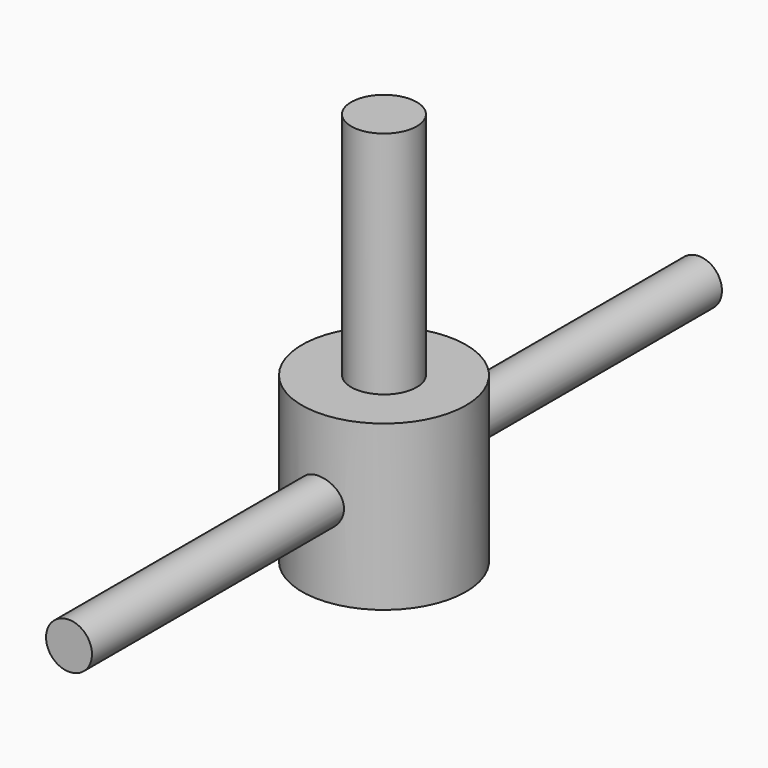
from build123d import *

# Parameters (mm, degrees)
F0_R     = 15.875
F1_DEPTH = 31.75
F2_R     = 6.35
F3_DEPTH = 44.45
F4_R     = 4.445
F5_DEPTH = 76.2


with BuildPart() as f1:
    # F0 (on Top) → F1 (new body)
    with BuildSketch(Plane.XY):
        Circle(F0_R)
    extrude(amount=F1_DEPTH)

    # F2 (on face) → F3 (join)
    with BuildSketch(Plane.XY.offset(31.75)):
        Circle(F2_R)
    extrude(amount=F3_DEPTH)

    # F4 (on Front) → F5 (join, symmetric)
    with BuildSketch(Plane.XZ):
        with Locations((0, 16.606679)):
            Circle(F4_R)
    extrude(amount=F5_DEPTH, both=True)


solid = f1.part
